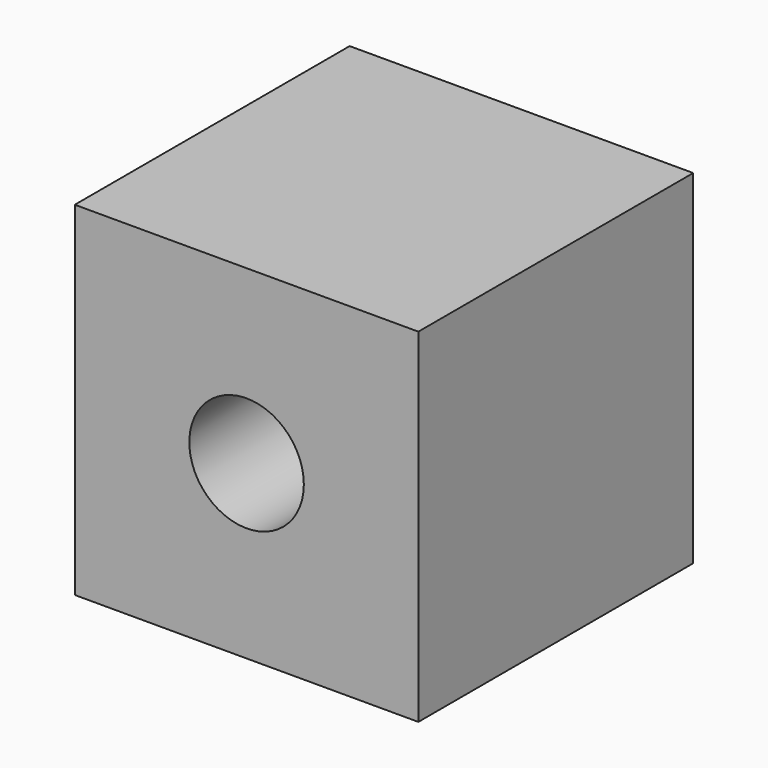
from build123d import *

# Parameters (mm, degrees)
F0_W     = 60
F0_H     = 60
F1_DEPTH = 60
F2_R     = 10
F3_DEPTH = 60.001


with BuildPart() as f1:
    # F0 (on Front) → F1 (new body)
    with BuildSketch(Plane.XZ):
        Rectangle(F0_W, F0_H)
    extrude(amount=F1_DEPTH)

    # F2 (on face) → F3 (cut, through all)
    with BuildSketch(Plane.XZ.offset(60)):
        Circle(F2_R)
    extrude(amount=-F3_DEPTH, mode=Mode.SUBTRACT)


solid = f1.part
